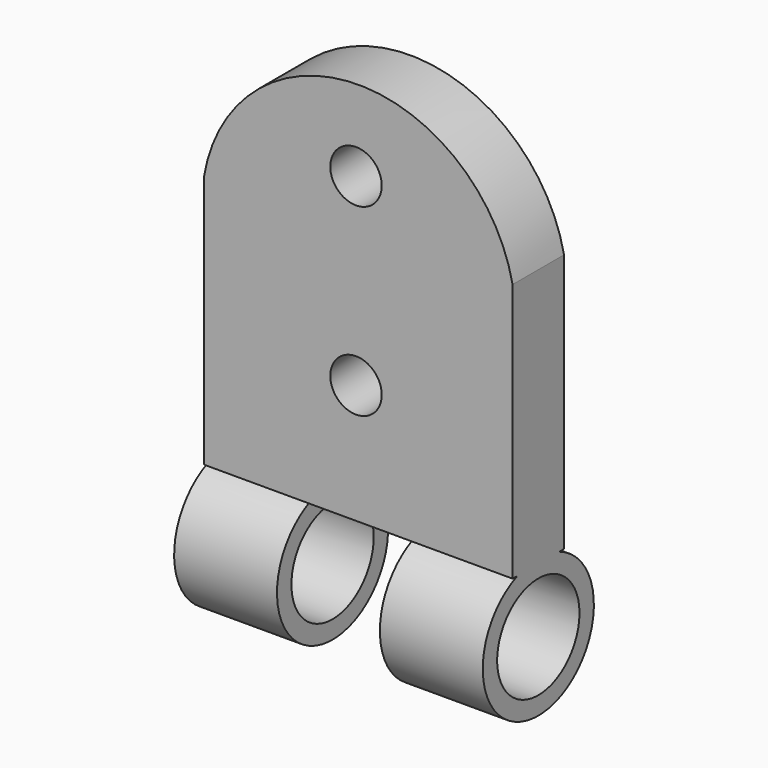
from build123d import *

# Parameters (mm, degrees)
F1_DEPTH = 6.35
F2_R     = 6.858
F3_DEPTH = 10.16
F4_R     = 6.858
F5_DEPTH = 10.16
F6_R     = 5.08
F7_DEPTH = 30.481
F8_R     = 2.54
F9_DEPTH = 25.4


with BuildPart() as f1:
    # F0 (on Front) → F1 (new body)
    with BuildSketch(Plane.XZ):
        with BuildLine():
            Line((0, 25.037667), (0, 0))
            Line((0, 0), (30.48, 0))
            Line((30.48, 0), (30.48, 25.575707))
            ThreePointArc((30.48, 25.575707), (15.016074, 37.992138), (0, 25.037667))
        make_face()
    extrude(amount=F1_DEPTH)

    # F2 (on face) → F3 (join)
    with BuildSketch(Plane.YZ.offset(30.48)):
        with Locations((-3.175, -6.35)):
            Circle(F2_R)
    extrude(amount=-F3_DEPTH)

    # F4 (on face) → F5 (join)
    with BuildSketch(Plane(origin=(0, 0, 0), x_dir=(0, -1, 0), z_dir=(-1, 0, 0))):
        with Locations((3.175, -6.35)):
            Circle(F4_R)
    extrude(amount=-F5_DEPTH)

    # F6 (on face) → F7 (cut, through all)
    with BuildSketch(Plane.YZ.offset(30.48)):
        with Locations((-3.175, -6.35)):
            Circle(F6_R)
    extrude(amount=-F7_DEPTH, mode=Mode.SUBTRACT)

    # F8 (on face) → F9 (cut)
    with BuildSketch(Plane.XZ.offset(6.35)):
        with Locations((15.016074, 29.962173)):
            Circle(F8_R)
        with Locations((15.016074, 11.774546)):
            Circle(F8_R)
    extrude(amount=-F9_DEPTH, mode=Mode.SUBTRACT)


solid = f1.part
